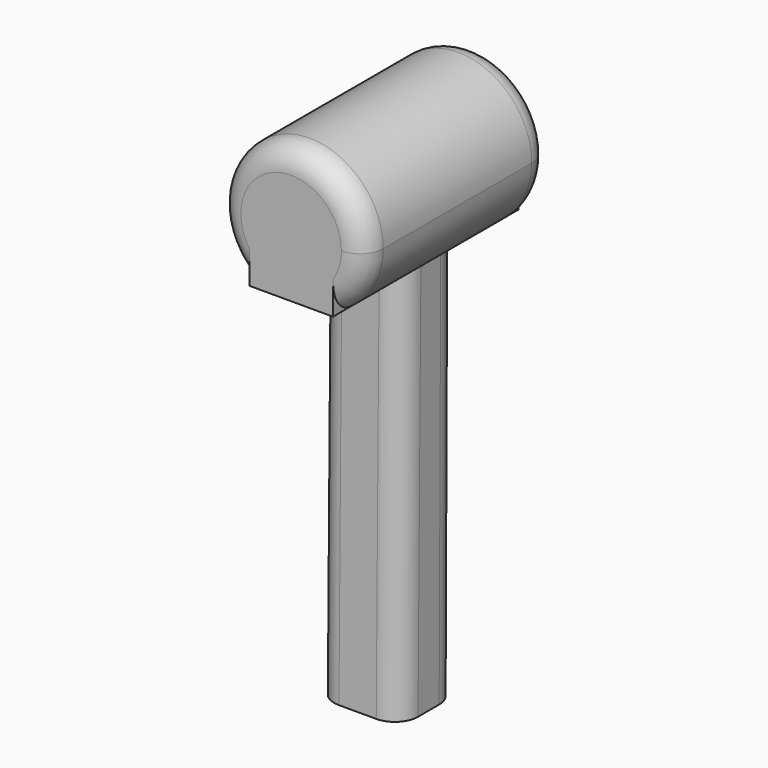
from build123d import *

# Parameters (mm, degrees)
F0_W     = 25.4
F0_H     = 63.5
F1_DEPTH = 25.4
F3_DEPTH = 25.4
F5_DEPTH = 25.4
F7_DEPTH = 25.4
F8_R     = 2.54


with BuildPart() as f1:
    # F0 (on Front) → F1 (new body)
    with BuildSketch(Plane.XZ):
        with Locations((-12.7, 31.75)):
            Rectangle(F0_W, F0_H)
    extrude(amount=F1_DEPTH)

    # F2 (on face) → F3 (cut)
    with BuildSketch(Plane.XZ.offset(25.4)):
        with BuildLine():
            Line((-16.826138, 0), (-16.826138, 43.294895))
            ThreePointArc((-16.826138, 43.294895), (-15.979296, 57.029675), (-4.20577, 49.906094))
            ThreePointArc((-4.20577, 49.906094), (-5.124016, 46.174395), (-7.669056, 43.294895))
            Line((-7.669056, 43.294895), (-7.669056, 0))
            Line((-7.669056, 0), (0, 0))
            Line((0, 0), (0, 63.5))
            Line((0, 63.5), (-25.4, 63.5))
            Line((-25.4, 63.5), (-25.4, 0))
            Line((-25.4, 0), (-16.826138, 0))
        make_face()
    extrude(amount=-F3_DEPTH, mode=Mode.SUBTRACT)

    # F4 (on Right) → F5 (cut)
    with BuildSketch(Plane.YZ):
        Polygon((5.837639, 43.267213), (-8.126909, 43.267213), (-8.355836, -3.662833), (5.837639, -3.662833), align=None)
    extrude(amount=-F5_DEPTH, mode=Mode.SUBTRACT)

    # F6 (on Right) → F7 (cut)
    with BuildSketch(Plane.YZ):
        Polygon((-16.368283, -6.409957), (-15.91043, 43.267213), (-32.622103, 43.267213), (-32.622103, -6.409957), align=None)
    extrude(amount=-F7_DEPTH, mode=Mode.SUBTRACT)

    # F8
    f8_edges = [f1.edges().sort_by_distance(p)[0] for p in [
        (-16.826138, -8.232439, 21.633606),
        (-16.826138, -16.109818, 21.633606),
        (-7.669056, -16.109818, 21.633606),
        (-7.669056, -8.232439, 21.633606),
        (-15.979296, -25.4, 57.029675),
        (-15.979296, 0, 57.029675),
    ]]
    fillet(f8_edges, radius=F8_R)


solid = f1.part
